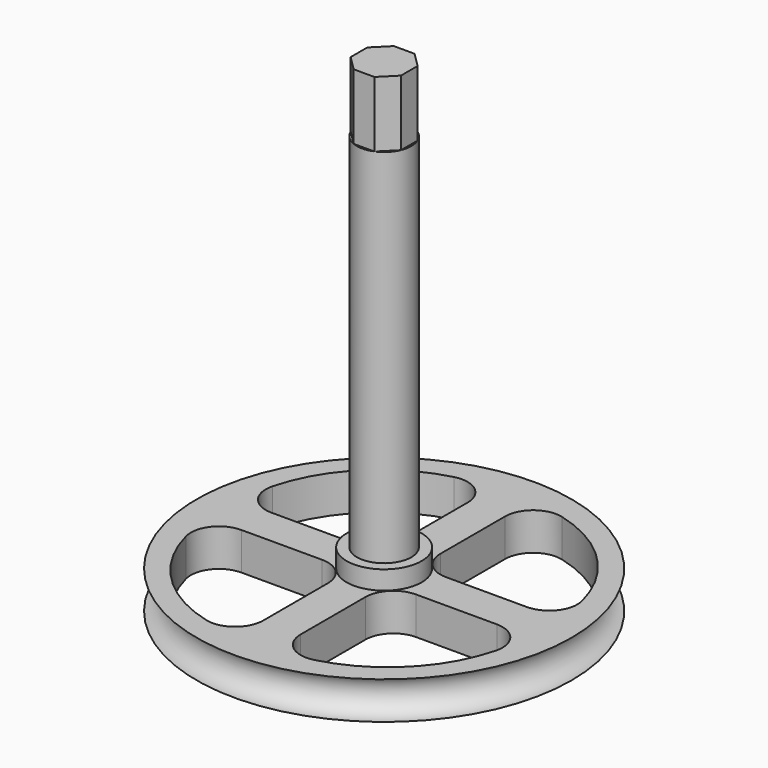
from build123d import *

# Parameters (mm, degrees)
CYLINDER001_R     = 0.1
CYLINDER001_DEPTH = 10
CYLINDER002_R     = 2.9
CYLINDER002_DEPTH = 44.6
CYLINDER003_R     = 4
CYLINDER003_DEPTH = 6
TORUS_R           = 2
CYLINDER_R        = 20
CYLINDER_DEPTH    = 4
POCKET_DEPTH      = 4.001
FILLET_R          = 3
FILLET001_R       = 3
FILLET002_R       = 3
POCKET001_DEPTH   = 5
PAD_DEPTH         = 7


with BuildPart() as cylinder001:
    # Cylinder001 → Cylinder001 (new body)
    with BuildSketch(Plane.XY):
        Circle(CYLINDER001_R)
    extrude(amount=CYLINDER001_DEPTH)


with BuildPart() as cylinder002:
    # Cylinder002 → Cylinder002 (new body)
    with BuildSketch(Plane.XY):
        Circle(CYLINDER002_R)
    extrude(amount=CYLINDER002_DEPTH)


with BuildPart() as cylinder003:
    # Cylinder003 → Cylinder003 (new body)
    with BuildSketch(Plane.XY):
        Circle(CYLINDER003_R)
    extrude(amount=CYLINDER003_DEPTH)


with BuildPart() as torus:
    # Torus → Torus (revolve)
    with BuildSketch(Plane(origin=(0, 0, 2), x_dir=(1, 0, 0), z_dir=(0, -1, 0))):
        with Locations((20, 0)):
            Circle(TORUS_R)
    revolve(axis=Axis((0, 0, 2), (0, 0, 1)))


with BuildPart() as body002:
    # Cylinder → Cylinder (new body)
    with BuildSketch(Plane.XY):
        Circle(CYLINDER_R)
    extrude(amount=CYLINDER_DEPTH)

    # Sketch001 (on DatumPlane) → Pocket (cut, through all)
    with BuildSketch(Plane(origin=(0, 0, 0), x_dir=(1, 0, 0), z_dir=(0, 0, -1))):
        with BuildLine():
            Line((2, 17), (2, 2))
            Line((2, 2), (17, 2))
            ThreePointArc((17, 2), (12.606602, 12.606602), (2, 17))
        make_face()
        with BuildLine():
            Line((-2, 17), (-2, 2))
            Line((-17, 2), (-2, 2))
            ThreePointArc((-2, 17), (-12.606602, 12.606602), (-17, 2))
        make_face()
        with BuildLine():
            Line((2, -2), (17, -2))
            ThreePointArc((2, -17), (12.606602, -12.606602), (17, -2))
            Line((2, -2), (2, -17))
        make_face()
        with BuildLine():
            Line((-2, -2), (-2, -17))
            ThreePointArc((-17, -2), (-12.606602, -12.606602), (-2, -17))
            Line((-17, -2), (-2, -2))
        make_face()
    extrude(amount=-POCKET_DEPTH, mode=Mode.SUBTRACT)

    # Fillet
    fillet_edges = [body002.edges().sort_by_distance(p)[0] for p in [
        (-2, -17, 2),
    ]]
    fillet(fillet_edges, radius=FILLET_R)

    # Fillet001
    fillet001_edges = [body002.edges().sort_by_distance(p)[0] for p in [
        (-17, 2, 2),
        (2, -17, 2),
        (17, -2, 2),
        (-17, -2, 2),
        (-2, 17, 2),
        (2, 17, 2),
        (17, 2, 2),
    ]]
    fillet(fillet001_edges, radius=FILLET001_R)

    # Fillet002
    fillet002_edges = [body002.edges().sort_by_distance(p)[0] for p in [
        (2, -2, 2),
        (2, 2, 2),
        (-2, 2, 2),
        (-2, -2, 2),
    ]]
    fillet(fillet002_edges, radius=FILLET002_R)

    # Cut: cut Torus
    add(torus.part, mode=Mode.SUBTRACT)

    # Sketch (on DatumPlane) → Pocket001 (cut)
    with BuildSketch(Plane(origin=(0, 0, 0), x_dir=(1, 0, 0), z_dir=(0, 0, -1))):
        Polygon((1.109782, -2.679251), (2.679251, -1.109782), (2.679251, 1.109782), (1.109782, 2.679251), (-1.109782, 2.679251), (-2.679251, 1.109782), (-2.679251, -1.109782), (-1.109782, -2.679251), align=None)
    extrude(amount=-POCKET001_DEPTH, mode=Mode.SUBTRACT)

    # Fusion: union Cylinder002, Cylinder003
    add(cylinder002.part)
    add(cylinder003.part)

    # Sketch002 (on DatumPlane) → Pad (new body)
    with BuildSketch(Plane.XY.offset(44.6)):
        Polygon((2.679251, 1.109782), (1.109782, 2.679251), (-1.109782, 2.679251), (-2.679251, 1.109782), (-2.679251, -1.109782), (-1.109782, -2.679251), (1.109782, -2.679251), (2.679251, -1.109782), align=None)
    extrude(amount=PAD_DEPTH)


solid = Compound([cylinder001.part, body002.part])
